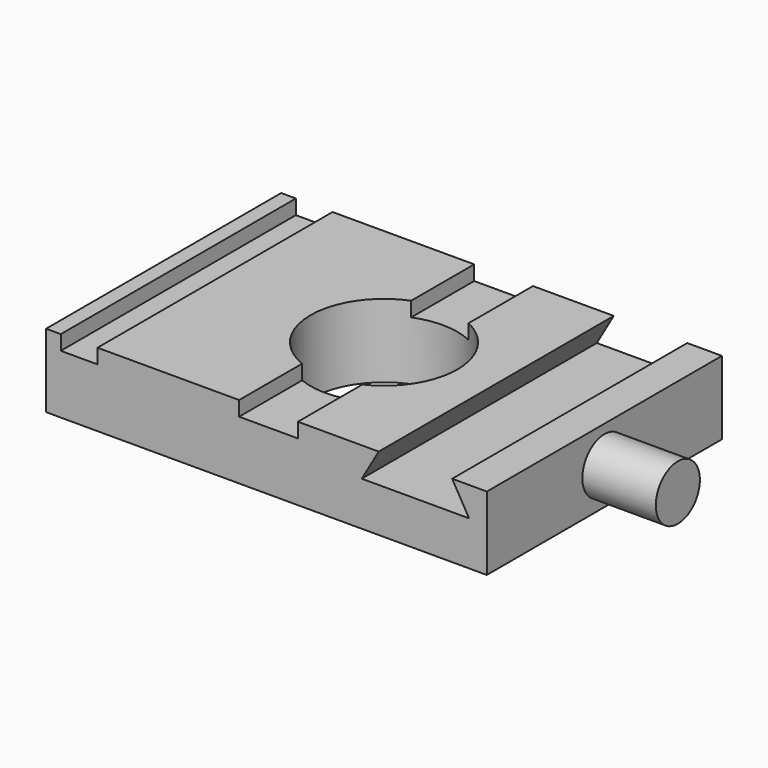
from build123d import *

# Parameters (mm, degrees)
F0_W     = 76.2
F0_H     = 50.8
F0_R     = 12.7
F1_DEPTH = 12.7
F2_W     = 6.35
F2_H     = 50.8
F3_DEPTH = 2.54
F5_DEPTH = 50.801
F6_R     = 4.7625
F7_DEPTH = 12.7


with BuildPart() as f1:
    # F0 (on Top) → F1 (new body)
    with BuildSketch(Plane.XY):
        with Locations((0, 2.5159691649)):
            Rectangle(F0_W, F0_H)
        with Locations((0, 2.5159691649)):
            Circle(F0_R, mode=Mode.SUBTRACT)
    extrude(amount=F1_DEPTH)

    # F2 (on face) → F3 (cut)
    with BuildSketch(Plane.XY.offset(12.7)):
        with Locations((-32.385, 2.5159691649)):
            Rectangle(F2_W, F2_H)
        with BuildLine():
            Line((5.4333791433, 27.9159691649), (-4.7266208567, 27.9159691649))
            Line((-4.7266208567, 27.9159691649), (-4.7266208567, 14.303634552))
            ThreePointArc((-4.7266208567, 14.303634552), (0.3856021432, 15.210113917), (5.4333791433, 13.9950105485))
            Line((5.4333791433, 13.9950105485), (5.4333791433, 27.9159691649))
        make_face()
        with BuildLine():
            Line((-4.7266208567, -9.2716962221), (-4.7266208567, -22.8840308351))
            Line((-4.7266208567, -22.8840308351), (5.4333791433, -22.8840308351))
            Line((5.4333791433, -22.8840308351), (5.4333791433, -8.9630722186))
            ThreePointArc((5.4333791433, -8.9630722186), (0.3856021432, -10.1781755872), (-4.7266208567, -9.2716962221))
        make_face()
    extrude(amount=-F3_DEPTH, mode=Mode.SUBTRACT)

    # F4 (on face) → F5 (cut, through all)
    with BuildSketch(Plane.XZ.offset(22.8840308351)):
        Polygon((32.1033791433, 12.7), (19.4033791433, 12.7), (16.4704397758, 7.62), (35.0363185108, 7.62), align=None)
    extrude(amount=-F5_DEPTH, mode=Mode.SUBTRACT)

    # F6 (on face) → F7 (join)
    with BuildSketch(Plane.YZ.offset(38.1)):
        with Locations((2.5159691649, 6.35)):
            Circle(F6_R)
    extrude(amount=F7_DEPTH)


solid = f1.part
